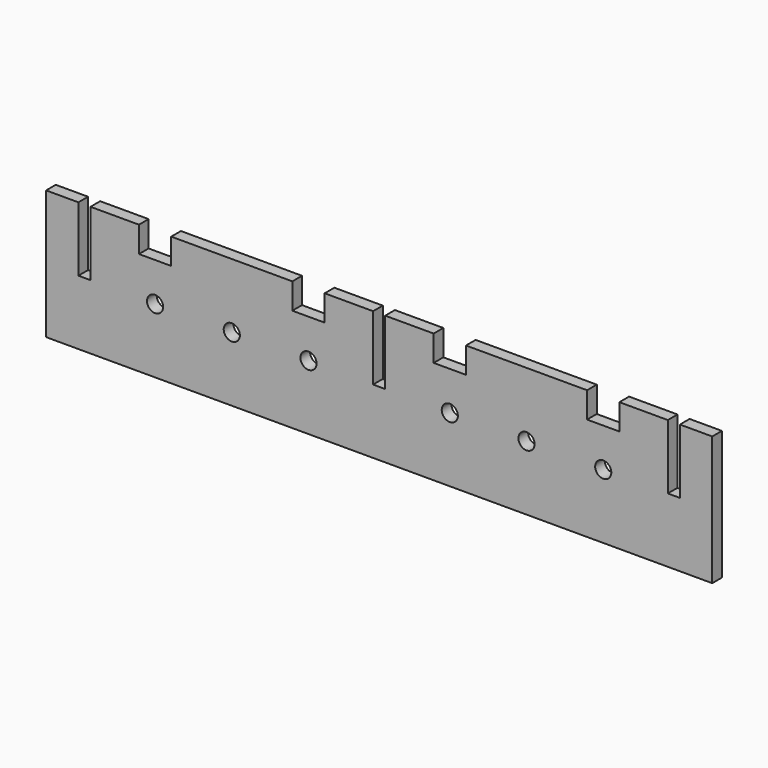
from build123d import *

# Parameters (mm, degrees)
F0_R     = 10
F1_DEPTH = 15


with BuildPart() as f1:
    # F0 (on Front) → F1 (new body)
    with BuildSketch(Plane.XZ):
        Polygon((-372.5, 80), (-412.5, 80), (-412.5, -80), (-332.5, -80), (332.5, -80), (412.5, -80), (412.5, 80), (372.5, 80), (372.5, 0), (357.5, 0), (357.5, 80), (297.5, 80), (297.5, 48), (257.5, 48), (257.5, 80), (107.5, 80), (107.5, 48), (67.5, 48), (67.5, 80), (7.5, 80), (7.5, 0), (-7.5, 0), (-7.5, 80), (-67.5, 80), (-67.5, 48), (-107.5, 48), (-107.5, 80), (-257.5, 80), (-257.5, 48), (-297.5, 48), (-297.5, 80), (-357.5, 80), (-357.5, 0), (-372.5, 0), align=None)
        with Locations((-277.5, 0)):
            Circle(F0_R, mode=Mode.SUBTRACT)
        with Locations((-182.5, 0)):
            Circle(F0_R, mode=Mode.SUBTRACT)
        with Locations((-87.5, 0)):
            Circle(F0_R, mode=Mode.SUBTRACT)
        with Locations((87.5, 0)):
            Circle(F0_R, mode=Mode.SUBTRACT)
        with Locations((182.5, 0)):
            Circle(F0_R, mode=Mode.SUBTRACT)
        with Locations((277.5, 0)):
            Circle(F0_R, mode=Mode.SUBTRACT)
    extrude(amount=F1_DEPTH)


solid = f1.part
